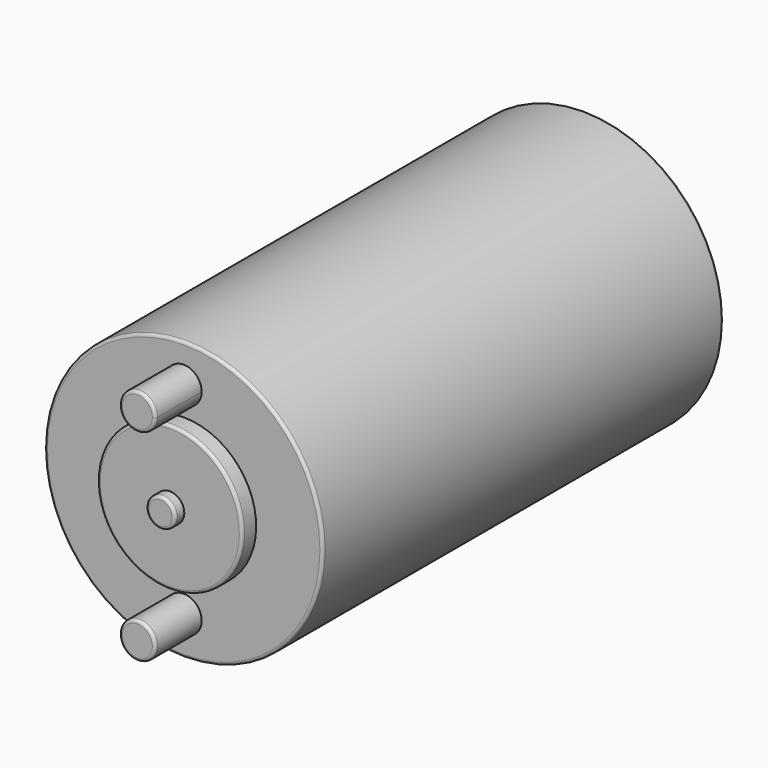
from build123d import *

# Parameters (mm, degrees)
F2_R     = 5.08
F3_R     = 30.991521
F4_DEPTH = 100
F5_R     = 5.08


with BuildPart() as f1:
    # F0 (on Right) → F1 (revolve)
    with BuildSketch(Plane.YZ):
        Polygon((-50, 25), (-50, 0), (963.6, 0), (963.6, 25), (913.6, 25), (913.6, 125), (863.6, 125), (863.6, 240), (0, 240), (0, 125), (-30, 125), (-30, 25), align=None)
    revolve(axis=Axis((0, 456.8, 0), (0, -1, 0)))

    # F2
    f2_edges = [f1.edges().sort_by_distance(p)[0] for p in [
        (0, 863.6, -240),
        (0, 913.6, -125),
        (0, 963.6, -25),
        (0, 0, -240),
        (0, -30, -125),
        (0, -50, -25),
    ]]
    fillet(f2_edges, radius=F2_R)

    # F3 (on face) → F4 (join)
    with BuildSketch(Plane.XZ):
        with BuildLine():
            ThreePointArc((30.991518, 173.886114), (-21.914312, 195.800426), (0, 142.894596))
            ThreePointArc((0, 142.894596), (21.914312, 151.971802), (30.991518, 173.886114))
        make_face()
        with Locations((0, -173.886105)):
            Circle(F3_R)
    extrude(amount=F4_DEPTH)

    # F5
    f5_edges = [f1.edges().sort_by_distance(p)[0] for p in [
        (-30.991521, -100, -173.886105),
        (0, -100, 204.877632),
    ]]
    fillet(f5_edges, radius=F5_R)


solid = f1.part
